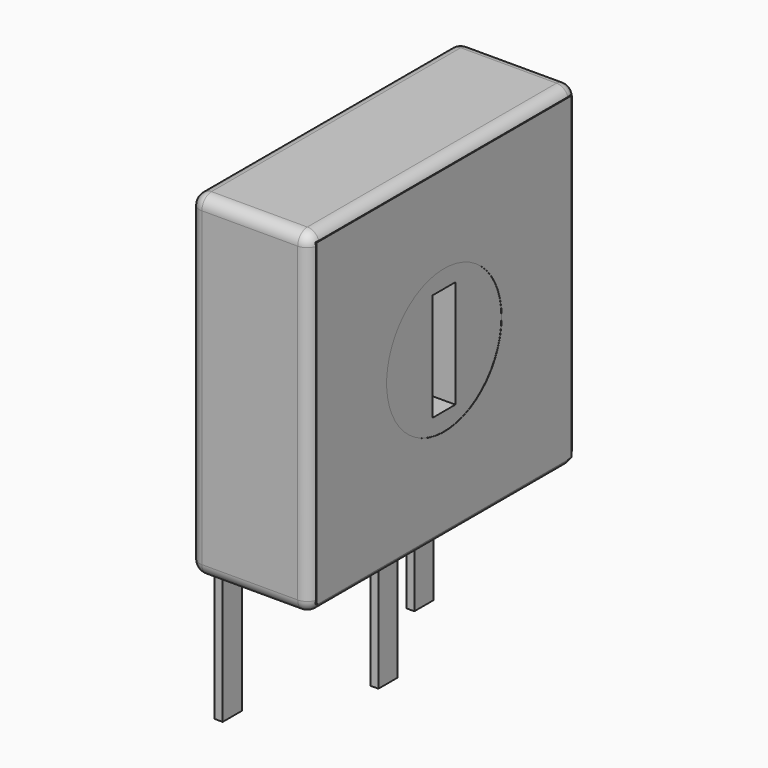
from build123d import *

# Parameters (mm, degrees)
SKETCH001_R       = 3
SKETCH001_W       = 1.2
SKETCH001_H       = 4.5
PAD001_DEPTH      = 5
SKETCH003_W       = 0.333334
SKETCH003_H       = 1
PAD002_DEPTH      = 6
PAD002_DEPTH_BACK = 3
SKETCH004_W       = 13.3
SKETCH004_H       = 13.3
SKETCH004_R       = 3
PAD003_DEPTH      = 0.2
SKETCH_W          = 14
SKETCH_H          = 14
SKETCH_R          = 3
PAD_DEPTH         = 5
FILLET_R          = 0.5


with BuildPart() as pad001:
    # Sketch001 → Pad001 (new body)
    with BuildSketch(Plane.YZ):
        with Locations((-5, 10)):
            Circle(SKETCH001_R)
        with Locations((-5, 10)):
            Rectangle(SKETCH001_W, SKETCH001_H, mode=Mode.SUBTRACT)
    extrude(amount=PAD001_DEPTH)


with BuildPart() as pad002:
    # Sketch003 → Pad002 (new body, two sides)
    with BuildSketch(Plane.XY) as pad002_sk:
        Rectangle(SKETCH003_W, SKETCH003_H)
        with Locations((2.5, -5)):
            Rectangle(SKETCH003_W, SKETCH003_H)
        with Locations((0, -10)):
            Rectangle(SKETCH003_W, SKETCH003_H)
    extrude(amount=PAD002_DEPTH)
    extrude(pad002_sk.sketch, amount=-PAD002_DEPTH_BACK)


with BuildPart() as pad003:
    # Sketch004 → Pad003 (new body)
    with BuildSketch(Plane.YZ.offset(5.01)):
        with Locations((-5, 10)):
            Rectangle(SKETCH004_W, SKETCH004_H)
        with Locations((-5, 10)):
            Circle(SKETCH004_R, mode=Mode.SUBTRACT)
    extrude(amount=-PAD003_DEPTH)


with BuildPart() as fillet_body:
    # Sketch → Pad (new body)
    with BuildSketch(Plane.YZ):
        with Locations((-5, 10)):
            Rectangle(SKETCH_W, SKETCH_H)
        with Locations((-5, 10)):
            Circle(SKETCH_R, mode=Mode.SUBTRACT)
    extrude(amount=PAD_DEPTH)

    # Fillet
    fillet_edges = [fillet_body.edges().sort_by_distance(p)[0] for p in [
        (0, -12, 10),
        (0, -5, 17),
        (5, -5, 17),
        (5, -12, 10),
        (5, 2, 10),
        (5, -5, 3),
        (2.5, -12, 17),
        (2.5, -12, 3),
        (2.5, 2, 3),
        (0, -5, 3),
        (0, 2, 10),
        (2.5, 2, 17),
    ]]
    fillet(fillet_edges, radius=FILLET_R)


solid = Compound([pad001.part, pad002.part, pad003.part, fillet_body.part])
